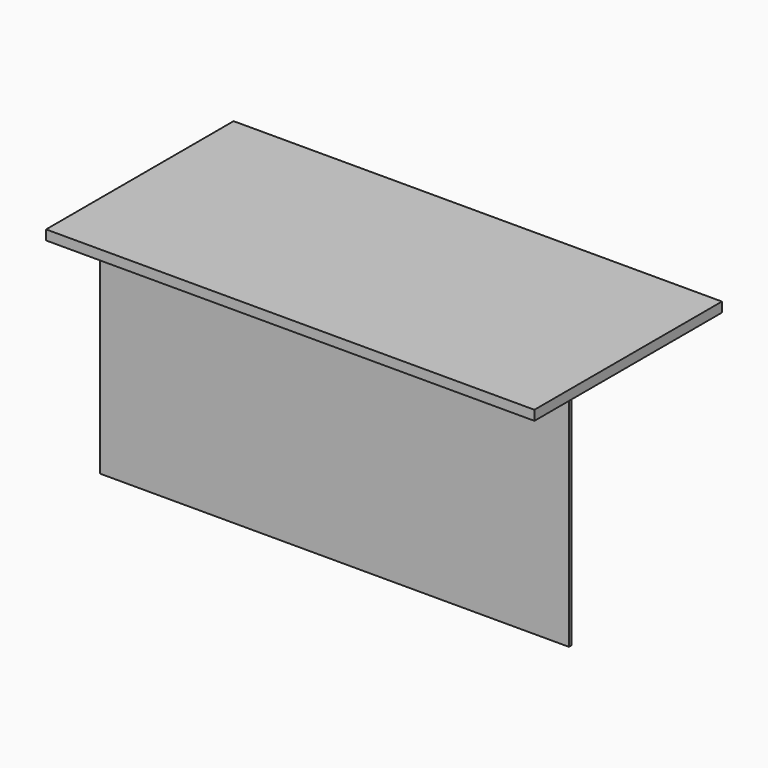
from build123d import *

# Parameters (mm, degrees)
F0_W     = 38.1
F0_H     = 914.4
F0_W_2   = 1828.8
F1_DEPTH = 38.1
F2_DEPTH = 876.3
F4_W     = 1828.8
F4_H     = 876.3
F5_DEPTH = 12.7
F6_W     = 914.4
F6_H     = 876.3
F7_DEPTH = 38.1
F8_W     = 914.4
F8_H     = 876.3
F9_DEPTH = 38.1


with BuildPart() as f1:
    # F0 (on Top) → F1 (new body)
    with BuildSketch(Plane.XY):
        with Locations((-933.45, 0)):
            Rectangle(F0_W, F0_H)
        Rectangle(F0_W_2, F0_H)
        with Locations((933.45, 0)):
            Rectangle(F0_W, F0_H)
    extrude(amount=F1_DEPTH)

    # F0 (on Top) → F2 (join)
    with BuildSketch(Plane.XY):
        with Locations((-933.45, 0)):
            Rectangle(F0_W, F0_H)
        with Locations((933.45, 0)):
            Rectangle(F0_W, F0_H)
    extrude(amount=-F2_DEPTH)

    # F6 (on face) → F7 (cut)
    with BuildSketch(Plane.YZ.offset(952.5)):
        with Locations((0, -438.15)):
            Rectangle(F6_W, F6_H)
    extrude(amount=-F7_DEPTH, mode=Mode.SUBTRACT)

    # F8 (on face) → F9 (cut)
    with BuildSketch(Plane(origin=(-952.5, 0, 0), x_dir=(0, -1, 0), z_dir=(-1, 0, 0))):
        with Locations((0, -438.15)):
            Rectangle(F8_W, F8_H)
    extrude(amount=-F9_DEPTH, mode=Mode.SUBTRACT)


with BuildPart() as f5:
    # F4 (on offset) → F5 (new body)
    with BuildSketch(Plane.XZ.offset(228.6)):
        with Locations((0, -438.15)):
            Rectangle(F4_W, F4_H)
    extrude(amount=F5_DEPTH)


solid = Compound([f1.part, f5.part])
